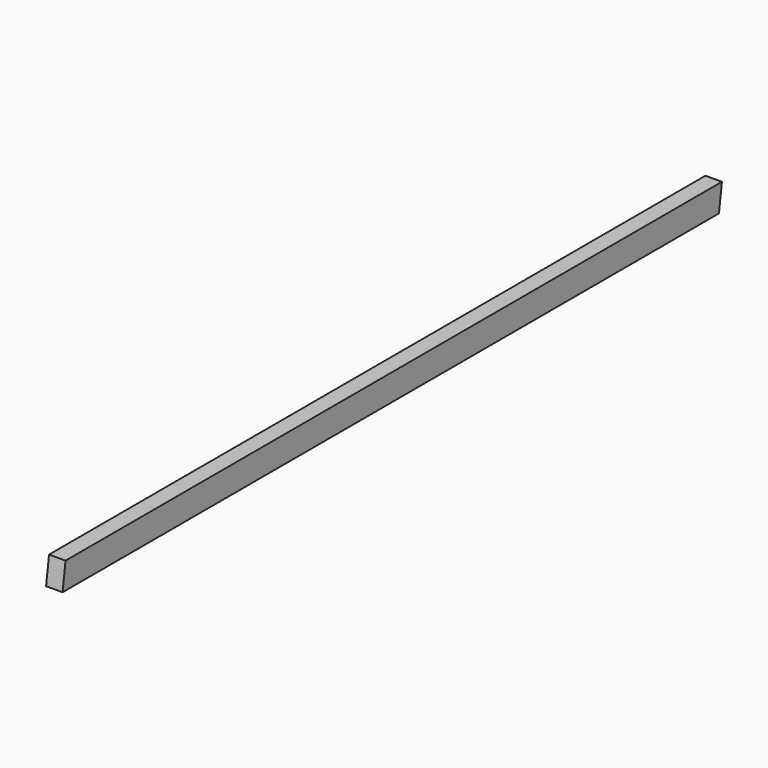
from build123d import *

# Parameters (mm, degrees)
F0_W     = 50
F0_H     = 80
F1_DEPTH = 2500
F3_DEPTH = 87.882459


with BuildPart() as f1:
    # F0 (on Front) → F1 (new body)
    with BuildSketch(Plane.XZ):
        Rectangle(F0_W, F0_H)
    extrude(amount=F1_DEPTH)

    # F2 (on face) → F3 (cut)
    with BuildSketch(Plane.YZ.offset(25)):
        Polygon((-11.243267, -40), (0, -40), (0, 40), align=None)
        Polygon((-2488.756733, 40), (-2500, 40), (-2500, -40), align=None)
    extrude(amount=-F3_DEPTH, mode=Mode.SUBTRACT)


solid = f1.part
